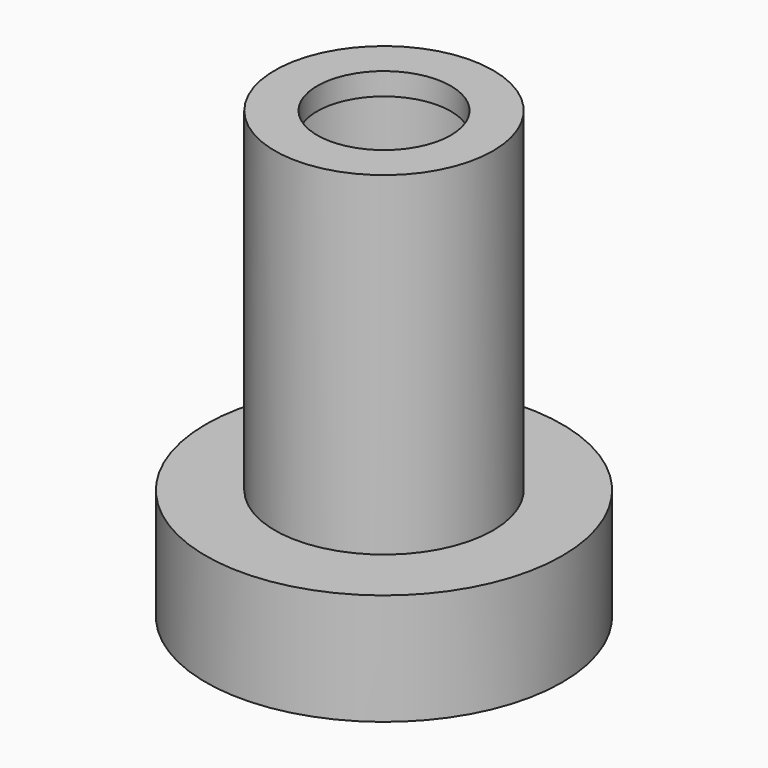
from build123d import *

# Parameters (mm, degrees)
F0_R          = 4.9
F1_DEPTH      = 14
F2_R          = 8
F3_DEPTH      = 5
F4_R          = 3.95
F5_DEPTH      = 25
F5_DEPTH_BACK = 25
F7_R          = 4.9
F7_R_2        = 3
F8_DEPTH      = 1


with BuildPart() as f1:
    # F0 (on Top) → F1 (new body)
    with BuildSketch(Plane.XY):
        Circle(F0_R)
    extrude(amount=F1_DEPTH)

    # F2 (on Top) → F3 (join)
    with BuildSketch(Plane.XY):
        Circle(F2_R)
    extrude(amount=-F3_DEPTH)

    # F4 (on Top) → F5 (cut, two sides)
    with BuildSketch(Plane.XY) as f5_sk:
        Circle(F4_R)
    extrude(amount=-F5_DEPTH, mode=Mode.SUBTRACT)
    extrude(f5_sk.sketch, amount=F5_DEPTH_BACK, mode=Mode.SUBTRACT)

    # F7 (on offset) → F8 (join)
    with BuildSketch(Plane.XY.offset(14)):
        Circle(F7_R)
        Circle(F7_R_2, mode=Mode.SUBTRACT)
    extrude(amount=F8_DEPTH)


solid = f1.part
